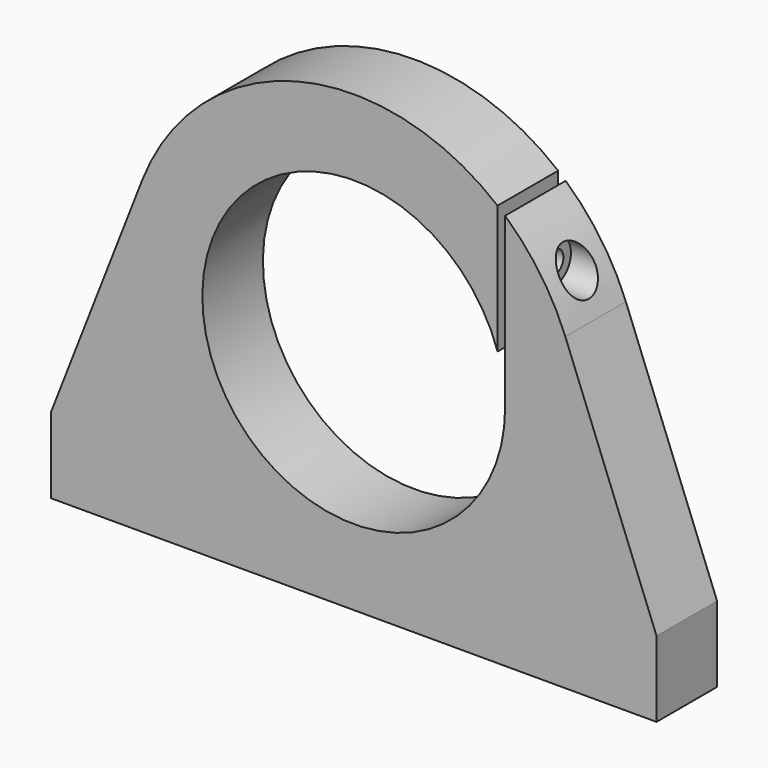
from build123d import *

# Parameters (mm, degrees)
F0_R      = 40
F1_DEPTH  = 20
F3_DEPTH  = 25
F4_R      = 3
F5_DEPTH  = 17.5
F7_R      = 5.5
F8_DEPTH  = 25
F9_R      = 3
F10_DEPTH = 15


with BuildPart() as f1:
    # F0 (on Front) → F1 (new body)
    with BuildSketch(Plane.XZ):
        with BuildLine():
            Line((0, 20), (0, 0))
            Line((0, 0), (160, 0))
            Line((160, 0), (160, 20))
            Line((160, 20), (135.8997487421, 81.7994974843))
            ThreePointArc((135.8997487421, 81.7994974843), (80, 120), (24.1002512579, 81.7994974843))
            Line((24.1002512579, 81.7994974843), (0, 20))
        make_face()
        with Locations((80, 60)):
            Circle(F0_R, mode=Mode.SUBTRACT)
    extrude(amount=F1_DEPTH)

    # F2 (on face) → F3 (cut)
    with BuildSketch(Plane.XZ.offset(20)):
        Polygon((118.0051983823, 117.4108353592), (118.0051983823, 60), (120, 60), (120, 117.2667294741), align=None)
    extrude(amount=-F3_DEPTH, mode=Mode.SUBTRACT)

    # F4 (on face) → F5 (cut, symmetric)
    with BuildSketch(Plane.YZ.offset(118.0051983823)):
        with Locations((-10, 91.4284922857)):
            Circle(F4_R)
    extrude(amount=F5_DEPTH, both=True, mode=Mode.SUBTRACT)

    # F7 (on offset) → F8 (cut)
    with BuildSketch(Plane(origin=(125, 0, 0), x_dir=(0, -1, 0), z_dir=(-1, 0, 0))):
        with Locations((10, 91.4284922857)):
            Circle(F7_R)
    extrude(amount=-F8_DEPTH, mode=Mode.SUBTRACT)

    # F9 (on face) → F10 (cut)
    with BuildSketch(Plane(origin=(0, 0, 0), x_dir=(1, 0, 0), z_dir=(0, 0, -1))):
        with Locations((20, 10)):
            Circle(F9_R)
        with Locations((140, 10)):
            Circle(F9_R)
        with Locations((80, 10)):
            Circle(F9_R)
    extrude(amount=-F10_DEPTH, mode=Mode.SUBTRACT)


solid = f1.part
